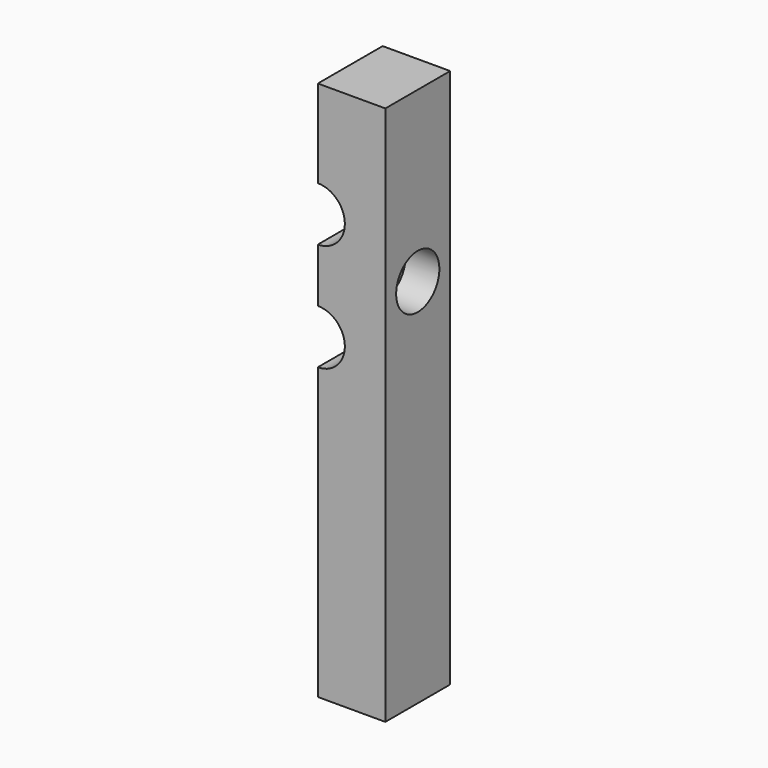
from build123d import *

# Parameters (mm, degrees)
CYLINDER010_R     = 4
CYLINDER010_DEPTH = 12
CYLINDER009_R     = 4
CYLINDER009_DEPTH = 12
CYLINDER006_R     = 4
CYLINDER006_DEPTH = 5
CYLINDER005_R     = 2.5
CYLINDER005_DEPTH = 5
CYLINDER003_R     = 2
CYLINDER003_DEPTH = 6
CYLINDER002_R     = 2
CYLINDER002_DEPTH = 6
BOX_W             = 10
BOX_H             = 12
BOX_DEPTH         = 80


with BuildPart() as cylinder010:
    # Cylinder010 → Cylinder010 (new body)
    with BuildSketch(Plane(origin=(10, 10, 63), x_dir=(1, 0, 0), z_dir=(0, -1, 0))):
        Circle(CYLINDER010_R)
    extrude(amount=CYLINDER010_DEPTH)


with BuildPart() as fusion005:
    # Cylinder009 → Cylinder009 (new body)
    with BuildSketch(Plane(origin=(10, 10, 47), x_dir=(1, 0, 0), z_dir=(0, -1, 0))):
        Circle(CYLINDER009_R)
    extrude(amount=CYLINDER009_DEPTH)

    # Fusion005: union Cylinder010
    add(cylinder010.part)


with BuildPart() as fusion005_1:
    # Fusion005 placement: moved
    add(fusion005.part.moved(Location((22, 2, 0))))


with BuildPart() as cylinder006:
    # Cylinder006 → Cylinder006 (new body)
    with BuildSketch(Plane(origin=(37, 5, 55), x_dir=(0, 0, -1), z_dir=(1, 0, 0))):
        Circle(CYLINDER006_R)
    extrude(amount=CYLINDER006_DEPTH)


with BuildPart() as fusion003:
    # Cylinder005 → Cylinder005 (new body)
    with BuildSketch(Plane(origin=(32, 5, 55), x_dir=(0, 0, -1), z_dir=(1, 0, 0))):
        Circle(CYLINDER005_R)
    extrude(amount=CYLINDER005_DEPTH)

    # Fusion003: union Cylinder006
    add(cylinder006.part)


with BuildPart() as fusion003_1:
    # Fusion003 placement: moved
    add(fusion003.part.moved(Location((0, 1, 0))))


with BuildPart() as cylinder003:
    # Cylinder003 → Cylinder003 (new body)
    with BuildSketch(Plane(origin=(10, 5, 40), x_dir=(0, 0, -1), z_dir=(1, 0, 0))):
        Circle(CYLINDER003_R)
    extrude(amount=CYLINDER003_DEPTH)


with BuildPart() as clipsnegative:
    # Cylinder002 → Cylinder002 (new body)
    with BuildSketch(Plane(origin=(10, 5, 70), x_dir=(0, 0, -1), z_dir=(1, 0, 0))):
        Circle(CYLINDER002_R)
    extrude(amount=CYLINDER002_DEPTH)

    # Fusion001: union Cylinder003
    add(cylinder003.part)


with BuildPart() as clipsnegative_1:
    # Fusion001 placement: moved
    add(clipsnegative.part.moved(Location((22, 1, 0))))


with BuildPart() as obj1:
    # Box → Box (new body)
    with BuildSketch(Plane(origin=(32, 0, 0), x_dir=(1, 0, 0), z_dir=(0, 0, 1))):
        with Locations((5, 6)):
            Rectangle(BOX_W, BOX_H)
    extrude(amount=BOX_DEPTH)

    # Cut: cut ClipsNegative
    add(clipsnegative_1.part, mode=Mode.SUBTRACT)

    # Cut002: cut Fusion003
    add(fusion003_1.part, mode=Mode.SUBTRACT)

    # Cut004: cut Fusion005
    add(fusion005_1.part, mode=Mode.SUBTRACT)


solid = obj1.part
